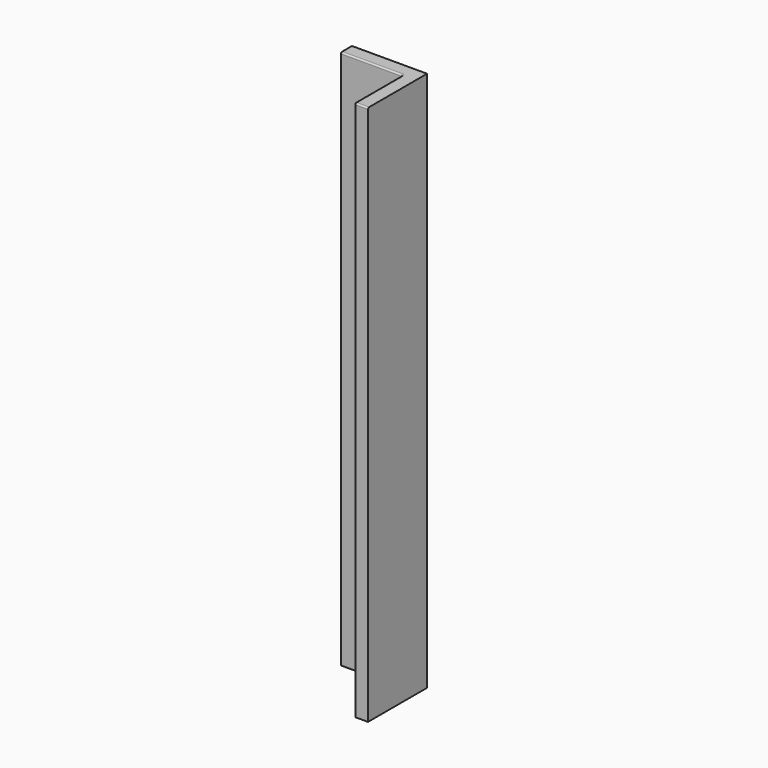
from build123d import *

# Parameters (mm, degrees)
F0_W      = 38.9711558819
F0_H      = 53.4048825502
F1_DEPTH  = 18
F2_DEPTH  = 50
F3_DEPTH  = 25
F4_DEPTH  = 718
F5_W      = 25
F5_H      = 718
F6_DEPTH  = 20
F7_DEPTH  = 7
F8_DEPTH  = 80
F9_DEPTH  = 20
F10_DEPTH = 70
F11_DEPTH = 18
F12_DEPTH = 1
F13_R     = 2


with BuildPart() as f1:
    # F0 (on Front) → F1 (new body)
    with BuildSketch(Plane.XZ):
        with Locations((19.4855779409, 26.7024412751)):
            Rectangle(F0_W, F0_H)
    extrude(amount=F1_DEPTH)

    # F2 (add): a face of the model
    f2_faces = [f1.faces().sort_by_distance(p)[0] for p in [
        (0, -9, 26.7024412751),
    ]]
    extrude(f2_faces, amount=-F2_DEPTH)

    # F3 (add): a face of the model
    f3_faces = [f1.faces().sort_by_distance(p)[0] for p in [
        (25, -9, 0),
    ]]
    extrude(f3_faces, amount=-F3_DEPTH)

    # F4 (add): a face of the model
    f4_faces = [f1.faces().sort_by_distance(p)[0] for p in [
        (25, -9, 0),
    ]]
    extrude(f4_faces, amount=-F4_DEPTH)

    # F5 (on face) → F6 (join)
    with BuildSketch(Plane.XZ.offset(18)):
        with Locations((37.5, 359)):
            Rectangle(F5_W, F5_H)
    extrude(amount=F6_DEPTH)

    # F7 (cut): a face of the model
    f7_faces = [f1.faces().sort_by_distance(p)[0] for p in [
        (25, -28, 359),
    ]]
    extrude(f7_faces, amount=-F7_DEPTH, mode=Mode.SUBTRACT)

    # F8 (add): a face of the model
    f8_faces = [f1.faces().sort_by_distance(p)[0] for p in [
        (41, -38, 359),
    ]]
    extrude(f8_faces, amount=F8_DEPTH)

    # F9 (cut): a face of the model
    f9_faces = [f1.faces().sort_by_distance(p)[0] for p in [
        (41, -118, 359),
    ]]
    extrude(f9_faces, amount=-F9_DEPTH, mode=Mode.SUBTRACT)

    # F10 (add): a face of the model
    f10_faces = [f1.faces().sort_by_distance(p)[0] for p in [
        (0, -9, 359),
    ]]
    extrude(f10_faces, amount=F10_DEPTH)

    # F11 (cut): a face of the model
    f11_faces = [f1.faces().sort_by_distance(p)[0] for p in [
        (-70, -9, 359),
    ]]
    extrude(f11_faces, amount=-F11_DEPTH, mode=Mode.SUBTRACT)

    # F12 (cut): a face of the model
    f12_faces = [f1.faces().sort_by_distance(p)[0] for p in [
        (-52, -9, 359),
    ]]
    extrude(f12_faces, amount=-F12_DEPTH, mode=Mode.SUBTRACT)

    # F13
    f13_edges = [f1.edges().sort_by_distance(p)[0] for p in [
        (-9.5, -18, 0),
        (-51, -18, 359),
        (-9.5, -18, 718),
        (32, -18, 359),
        (32, -58, 0),
        (32, -98, 359),
        (32, -58, 718),
        (41, -98, 718),
        (-51, -9, 718),
    ]]
    fillet(f13_edges, radius=F13_R)


solid = f1.part
